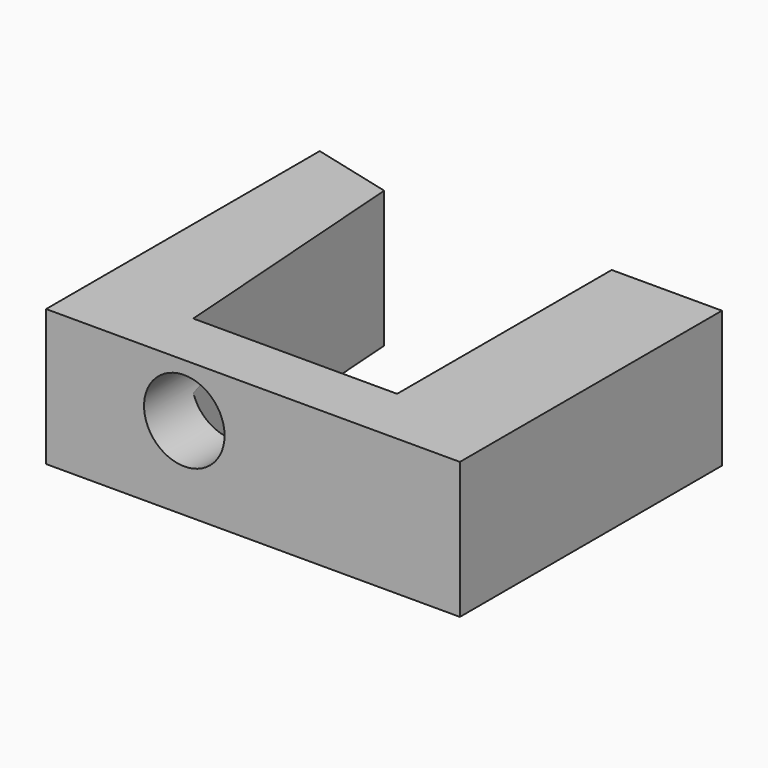
from build123d import *

# Parameters (mm, degrees)
F1_DEPTH = 25
F2_R     = 7.37266
F3_DEPTH = 25


with BuildPart() as f1:
    # F0 (on Top) → F1 (new body)
    with BuildSketch(Plane.XY):
        Polygon((0, 62.666665), (0, 0), (75.809521, 0), (75.809521, 60), (55.619047, 60), (55.619047, 10.857143), (18.285715, 10.857143), (14.857142, 58.85714), align=None)
    extrude(amount=F1_DEPTH)

    # F2 (on face) → F3 (cut)
    with BuildSketch(Plane.XZ):
        with Locations((25.321277, 15.218749)):
            Circle(F2_R)
    extrude(amount=-F3_DEPTH, mode=Mode.SUBTRACT)


solid = f1.part
